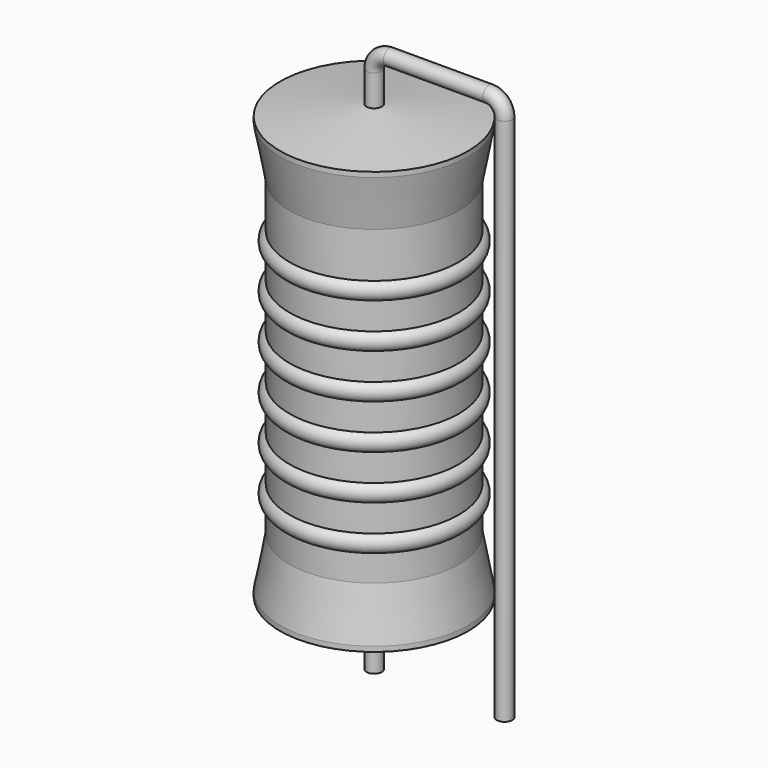
from build123d import *

# Parameters (mm, degrees)
SKETCH_R = 0.45


with BuildPart() as revolution:
    # Sketch002 → Revolution (revolve)
    with BuildSketch(Plane.XZ):
        Polygon((0, 0.1), (0, 26.1), (0.3375, 26.1), (5.5, 25.45), (5.5, 25.1575), (4.95, 22.2), (4.95, 4), (5.5, 1.0425), (5.5, 0.75), (0.3375, 0.1), align=None)
    revolve(axis=Axis((0, 0, 0), (0, 0, 1)))


with BuildPart() as sweep_body:
    # Sweep: sweep along a path in Sketch001
    with BuildLine(Plane.XZ) as sweep_path:
        Line((0, -3), (0, 27.9))
        ThreePointArc((0, 27.9), (0.263601, 28.536393), (0.899991, 28.8))
        Line((0.899991, 28.8), (6.72, 28.8))
        ThreePointArc((6.72, 28.8), (7.356396, 28.536396), (7.62, 27.9))
        Line((7.62, 27.9), (7.62, -3))
    # Sketch → Sweep (sweep)
    with BuildSketch(Plane.XY.offset(-2)):
        Circle(SKETCH_R)
    sweep(path=sweep_path.line)


with BuildPart() as obj1:
    # Sketch003 → Revolution001 (revolve)
    with BuildSketch(Plane.XZ):
        with BuildLine():
            Line((4.4, 21.1), (4.4, 4))
            Line((4.4, 4), (4.73, 4))
            Line((4.73, 4), (4.73, 5.5))
            ThreePointArc((4.73, 5.5), (5.28, 6.05), (4.73, 6.6))
            Line((4.73, 6.6), (4.73, 8.1))
            ThreePointArc((4.73, 8.1), (5.28, 8.65), (4.73, 9.2))
            Line((4.73, 9.2), (4.73, 10.7))
            ThreePointArc((4.73, 10.7), (5.28, 11.25), (4.73, 11.8))
            Line((4.73, 11.8), (4.73, 13.3))
            ThreePointArc((4.73, 13.3), (5.28, 13.85), (4.73, 14.4))
            Line((4.73, 14.4), (4.73, 15.9))
            ThreePointArc((4.73, 15.9), (5.28, 16.45), (4.73, 17))
            Line((4.73, 17), (4.73, 18.5))
            ThreePointArc((4.73, 18.5), (5.28, 19.05), (4.73, 19.6))
            Line((4.73, 21.1), (4.73, 19.6))
            Line((4.4, 21.1), (4.73, 21.1))
        make_face()
    revolve(axis=Axis((0, 0, 0), (0, 0, 1)))

    # obj1: union Revolution, Sweep body
    add(revolution.part)
    add(sweep_body.part)


solid = obj1.part
